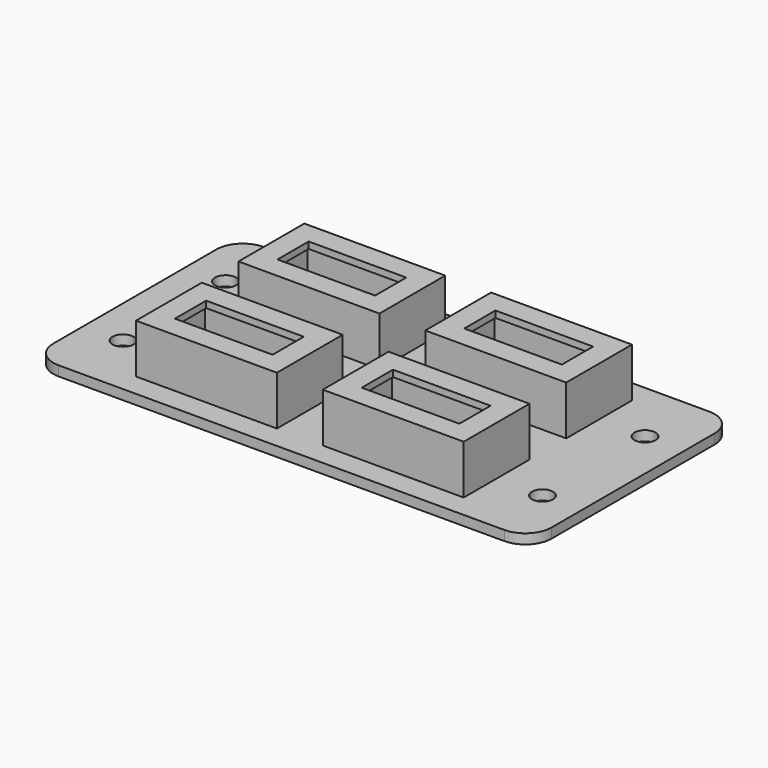
from build123d import *

# Parameters (mm, degrees)
F0_R     = 1.6
F0_W     = 21.5
F0_H     = 12.55
F0_W_2   = 16.5
F0_H_2   = 7.55
F1_DEPTH = 1.5
F2_DEPTH = 6.5
F3_W     = 21.5
F3_H     = 12.55
F3_W_2   = 16.5
F3_H_2   = 7.55
F3_W_3   = 14.9
F3_H_3   = 5.95
F4_DEPTH = 1


with BuildPart() as f1:
    # F0 (on Top) → F1 (new body)
    with BuildSketch(Plane.XY):
        with BuildLine():
            Line((-14.25, -9.775), (17.75, -9.775))
            Line((17.75, -9.775), (19.75, -9.775))
            ThreePointArc((19.75, -9.775), (22.5784271247, -8.6034271247), (23.75, -5.775))
            Line((23.75, -5.775), (23.75, 25.325))
            ThreePointArc((23.75, 25.325), (22.5784271247, 28.1534271247), (19.75, 29.325))
            Line((19.75, 29.325), (17.75, 29.325))
            Line((17.75, 29.325), (-14.25, 29.325))
            Line((-14.25, 29.325), (-46.25, 29.325))
            Line((-46.25, 29.325), (-48.25, 29.325))
            ThreePointArc((-48.25, 29.325), (-51.0784271247, 28.1534271247), (-52.25, 25.325))
            Line((-52.25, 25.325), (-52.25, -5.775))
            ThreePointArc((-52.25, -5.775), (-51.0784271247, -8.6034271247), (-48.25, -9.775))
            Line((-48.25, -9.775), (-46.25, -9.775))
            Line((-46.25, -9.775), (-14.25, -9.775))
        make_face()
        with Locations((-46.25, 0)):
            Circle(F0_R, mode=Mode.SUBTRACT)
        with Locations((-28.5, 0)):
            Rectangle(F0_W, F0_H, mode=Mode.SUBTRACT)
        Rectangle(F0_W, F0_H, mode=Mode.SUBTRACT)
        with Locations((17.75, 0)):
            Circle(F0_R, mode=Mode.SUBTRACT)
        with Locations((-46.25, 19.55)):
            Circle(F0_R, mode=Mode.SUBTRACT)
        with Locations((-28.5, 19.55)):
            Rectangle(F0_W, F0_H, mode=Mode.SUBTRACT)
        with Locations((0, 19.55)):
            Rectangle(F0_W, F0_H, mode=Mode.SUBTRACT)
        with Locations((17.75, 19.55)):
            Circle(F0_R, mode=Mode.SUBTRACT)
        with Locations((-28.5, 0)):
            Rectangle(F0_W, F0_H)
        with Locations((-28.5, 0)):
            Rectangle(F0_W_2, F0_H_2, mode=Mode.SUBTRACT)
        Rectangle(F0_W, F0_H)
        Rectangle(F0_W_2, F0_H_2, mode=Mode.SUBTRACT)
        with Locations((-28.5, 19.55)):
            Rectangle(F0_W, F0_H)
        with Locations((-28.5, 19.55)):
            Rectangle(F0_W_2, F0_H_2, mode=Mode.SUBTRACT)
        with Locations((0, 19.55)):
            Rectangle(F0_W, F0_H)
        with Locations((0, 19.55)):
            Rectangle(F0_W_2, F0_H_2, mode=Mode.SUBTRACT)
    extrude(amount=-F1_DEPTH)

    # F0 (on Top) → F2 (join)
    with BuildSketch(Plane.XY):
        Rectangle(F0_W, F0_H)
        Rectangle(F0_W_2, F0_H_2, mode=Mode.SUBTRACT)
        with Locations((-28.5, 0)):
            Rectangle(F0_W, F0_H)
        with Locations((-28.5, 0)):
            Rectangle(F0_W_2, F0_H_2, mode=Mode.SUBTRACT)
        with Locations((-28.5, 19.55)):
            Rectangle(F0_W, F0_H)
        with Locations((-28.5, 19.55)):
            Rectangle(F0_W_2, F0_H_2, mode=Mode.SUBTRACT)
        with Locations((0, 19.55)):
            Rectangle(F0_W, F0_H)
        with Locations((0, 19.55)):
            Rectangle(F0_W_2, F0_H_2, mode=Mode.SUBTRACT)
    extrude(amount=F2_DEPTH)

    # F3 (on face) → F4 (join)
    with BuildSketch(Plane.XY.offset(6.5)):
        with Locations((-28.5, 0)):
            Rectangle(F3_W, F3_H)
        with Locations((-28.5, 0)):
            Rectangle(F3_W_2, F3_H_2, mode=Mode.SUBTRACT)
        Rectangle(F3_W, F3_H)
        Rectangle(F3_W_2, F3_H_2, mode=Mode.SUBTRACT)
        with Locations((-28.5, 19.55)):
            Rectangle(F3_W, F3_H)
        with Locations((-28.5, 19.55)):
            Rectangle(F3_W_2, F3_H_2, mode=Mode.SUBTRACT)
        with Locations((0, 19.55)):
            Rectangle(F3_W, F3_H)
        with Locations((0, 19.55)):
            Rectangle(F3_W_2, F3_H_2, mode=Mode.SUBTRACT)
        with Locations((-28.5, 0)):
            Rectangle(F3_W_2, F3_H_2)
        with Locations((-28.5, 0)):
            Rectangle(F3_W_3, F3_H_3, mode=Mode.SUBTRACT)
        Rectangle(F3_W_2, F3_H_2)
        Rectangle(F3_W_3, F3_H_3, mode=Mode.SUBTRACT)
        with Locations((-28.5, 19.55)):
            Rectangle(F3_W_2, F3_H_2)
        with Locations((-28.5, 19.55)):
            Rectangle(F3_W_3, F3_H_3, mode=Mode.SUBTRACT)
        with Locations((0, 19.55)):
            Rectangle(F3_W_2, F3_H_2)
        with Locations((0, 19.55)):
            Rectangle(F3_W_3, F3_H_3, mode=Mode.SUBTRACT)
    extrude(amount=F4_DEPTH)


solid = f1.part
